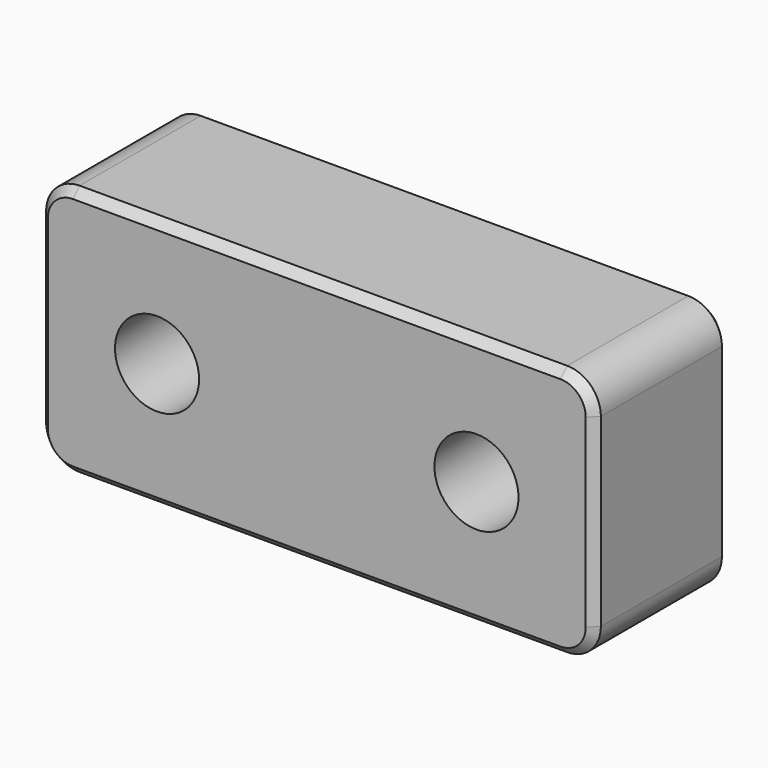
from build123d import *

# Parameters (mm, degrees)
F0_W     = 83.82
F0_H     = 38.1
F1_DEPTH = 25.4
F2_R     = 5.08
F3_R     = 6.35
F4_DEPTH = 25.4
F5_SIZE  = 1.27


with BuildPart() as f1:
    # F0 (on Front) → F1 (new body)
    with BuildSketch(Plane.XZ):
        with Locations((41.91, 19.05)):
            Rectangle(F0_W, F0_H)
    extrude(amount=F1_DEPTH)

    # F2
    f2_edges = [f1.edges().sort_by_distance(p)[0] for p in [
        (83.82, -12.7, 38.1),
        (0, -12.7, 38.1),
        (83.82, -12.7, 0),
        (0, -12.7, 0),
    ]]
    fillet(f2_edges, radius=F2_R)

    # F3 (on face) → F4 (cut, through all)
    with BuildSketch(Plane.XZ.offset(25.4)):
        with Locations((17.78, 19.05)):
            Circle(F3_R)
        with Locations((66.04, 19.05)):
            Circle(F3_R)
    extrude(amount=-F4_DEPTH, mode=Mode.SUBTRACT)

    # F5
    f5_edges = [f1.edges().sort_by_distance(p)[0] for p in [
        (41.91, -25.4, 38.1),
        (41.91, 0, 38.1),
    ]]
    chamfer(f5_edges, length=F5_SIZE)


solid = f1.part
